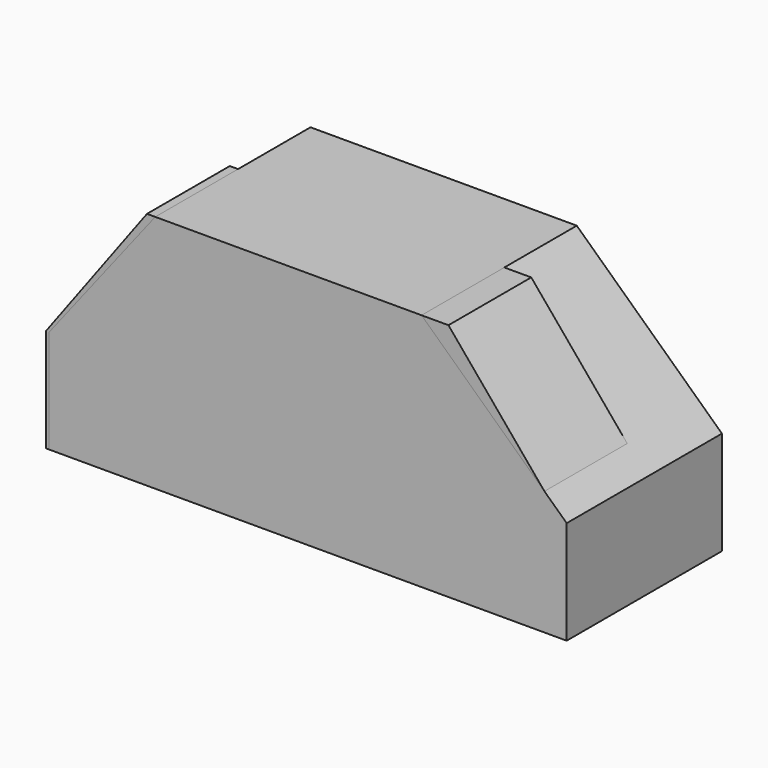
from build123d import *

# Parameters (mm, degrees)
F1_DEPTH = 25.4
F3_DEPTH = 47.625


with BuildPart() as f1:
    # F0 (on Front) → F1 (new body)
    with BuildSketch(Plane.XZ):
        Polygon((-63.5, -58.7375), (63.5, -58.7375), (63.079134, -33.3375), (35.2575, 0), (-38.736217, 0), (-63.5, -33.3375), align=None)
    extrude(amount=-F1_DEPTH)


with BuildPart() as f3:
    # F2 (on Front) → F3 (new body)
    with BuildSketch(Plane.XZ):
        Polygon((-62.725607, -33.3375), (-62.725607, -58.7375), (64.274393, -58.7375), (64.274393, -33.3375), (28.652436, 0), (-36.706098, 0), align=None)
    extrude(amount=-F3_DEPTH)


solid = Compound([f1.part, f3.part])
